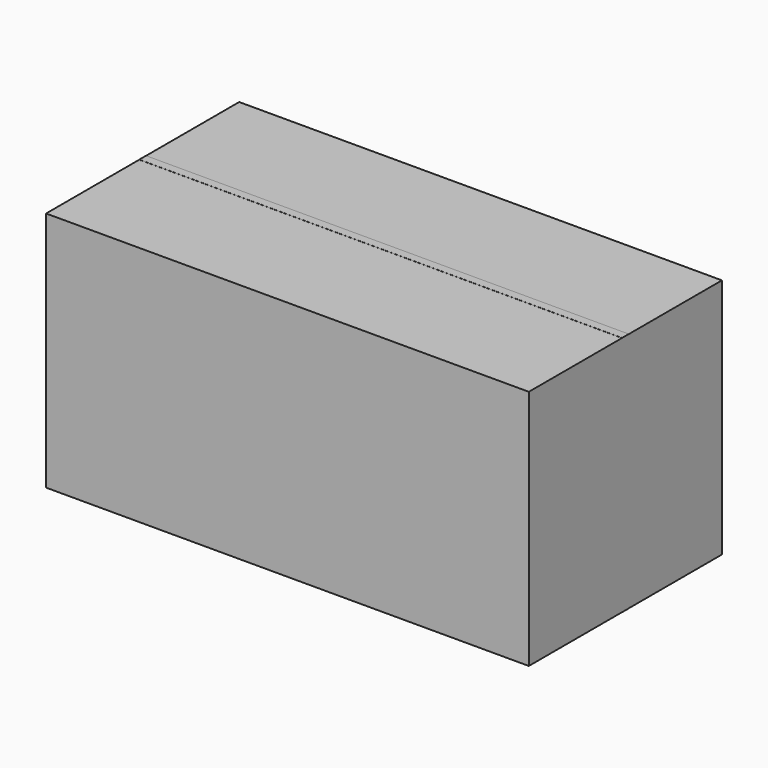
from build123d import *

# Parameters (mm, degrees)
F0_W     = 120
F0_H     = 60
F1_DEPTH = 30
F2_W     = 4.332021
F2_H     = 54.6
F2_W_2   = 4.302548
F3_DEPTH = 1.05


with BuildPart() as f1:
    # F0 (on Front) → F1 (new body, symmetric)
    with BuildSketch(Plane.XZ):
        Rectangle(F0_W, F0_H)
    extrude(amount=F1_DEPTH, both=True)

    # F2 (on Front) → F3 (join, symmetric)
    with BuildSketch(Plane.XZ):
        Polygon((59.720043, 27.3), (60, 27.3), (60, 30.02), (-60, 30.02), (-60, 27.3), (-55.697452, 27.3), (55.388022, 27.3), align=None)
        with Locations((57.554032, 0)):
            Rectangle(F2_W, F2_H)
        Polygon((60, -27.3), (59.720043, -27.3), (55.388022, -27.3), (-55.697452, -27.3), (-60, -27.3), (-60, -30.02), (60, -30.02), align=None)
        with Locations((-57.848726, 0)):
            Rectangle(F2_W_2, F2_H)
    extrude(amount=F3_DEPTH, both=True)


solid = f1.part
